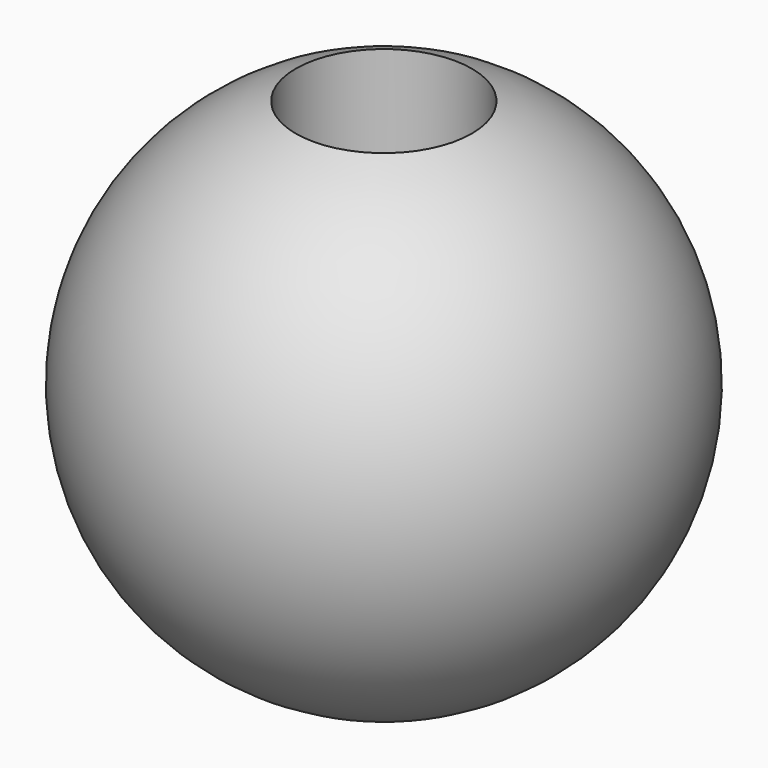
from build123d import *

# Parameters (mm, degrees)
F3_R     = 3.175
F4_DEPTH = 25.4


with BuildPart() as f1:
    # F0 (on Front) → F1 (revolve)
    with BuildSketch(Plane.XZ):
        with BuildLine():
            Line((0, -9.525), (0, 9.525))
            ThreePointArc((0, 9.525), (-9.525, 0), (0, -9.525))
        make_face()
    revolve(axis=Axis((0, 0, 0), (0, 0, -1)))

    # F3 (on offset) → F4 (cut)
    with BuildSketch(Plane.XY.offset(3.571875)):
        Circle(F3_R)
    extrude(amount=F4_DEPTH, mode=Mode.SUBTRACT)


solid = f1.part
